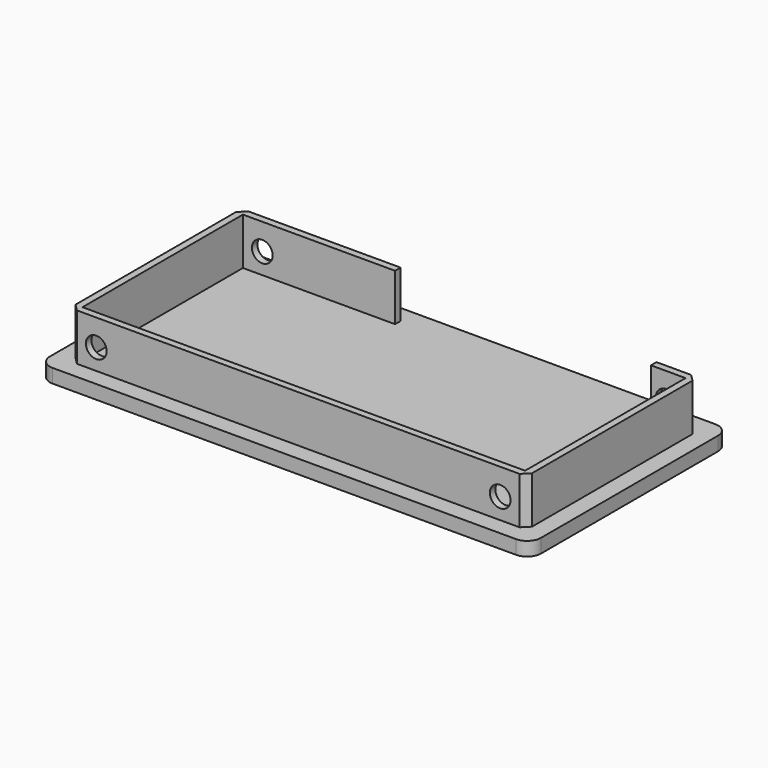
from build123d import *

# Parameters (mm, degrees)
F0_W     = 71
F0_H     = 36
F1_DEPTH = 2
F3_DEPTH = 6.8
F4_R     = 2
F5_R     = 1.25
F6_DEPTH = 8.801
F7_R     = 1.5
F8_DEPTH = 33.501
F9_SIZE  = 1


with BuildPart() as f1:
    # F0 (on Top) → F1 (new body)
    with BuildSketch(Plane.XY):
        with Locations((35.5, -18)):
            Rectangle(F0_W, F0_H)
    extrude(amount=F1_DEPTH)

    # F2 (on face) → F3 (join)
    with BuildSketch(Plane.XY.offset(2)):
        Polygon((25.5, -2.5), (2.5, -2.5), (2.5, -33.5), (68.5, -33.5), (68.5, -2.5), (62.5, -2.5), (62.5, -3.5), (67.5, -3.5), (67.5, -32.5), (3.5, -32.5), (3.5, -3.5), (25.5, -3.5), align=None)
    extrude(amount=F3_DEPTH)

    # F4
    f4_edges = [f1.edges().sort_by_distance(p)[0] for p in [
        (0, -36, 1),
        (0, 0, 1),
        (71, -36, 1),
        (71, 0, 1),
    ]]
    fillet(f4_edges, radius=F4_R)

    # F5 (on face) → F6 (cut, through all)
    with BuildSketch(Plane(origin=(0, 0, 0), x_dir=(1, 0, 0), z_dir=(0, 0, -1))):
        with Locations((16.25, 29.75)):
            Circle(F5_R)
        with Locations((19.25, 29.75)):
            Circle(F5_R)
    extrude(amount=-F6_DEPTH, mode=Mode.SUBTRACT)

    # F7 (on face) → F8 (cut, through all)
    with BuildSketch(Plane(origin=(0, -2.5, 0), x_dir=(-1, 0, 0), z_dir=(0, 1, 0))):
        with Locations((-64.7, 5)):
            Circle(F7_R)
        with Locations((-6.3, 5)):
            Circle(F7_R)
    extrude(amount=-F8_DEPTH, mode=Mode.SUBTRACT)

    # F9
    f9_edges = [f1.edges().sort_by_distance(p)[0] for p in [
        (2.5, -2.5, 5.4),
        (68.5, -33.5, 5.4),
        (68.5, -2.5, 5.4),
        (2.5, -33.5, 5.4),
    ]]
    chamfer(f9_edges, length=F9_SIZE)


solid = f1.part
